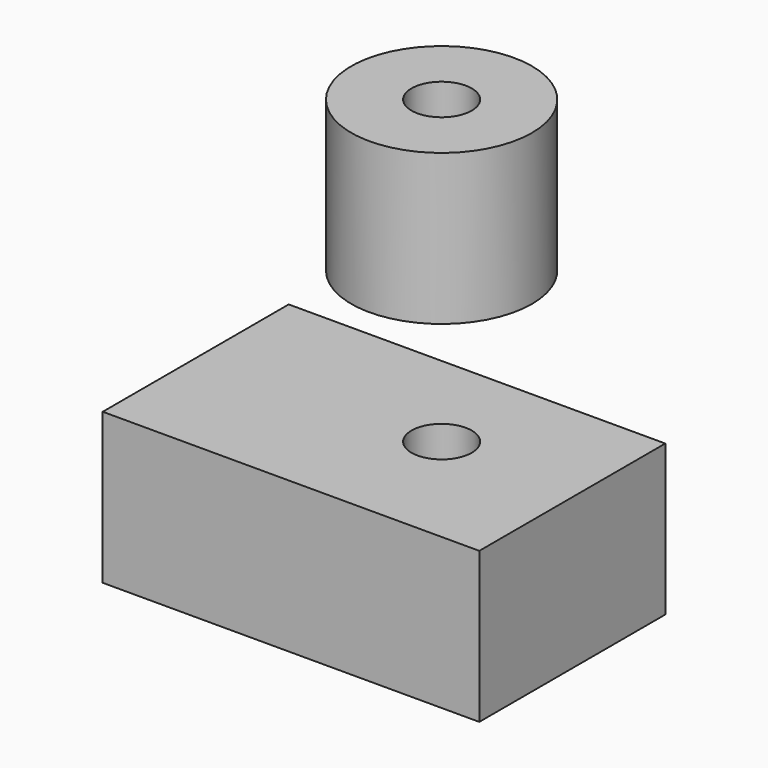
from build123d import *

# Parameters (mm, degrees)
F0_W     = 62.5082403421
F0_H     = 38.5892726481
F1_DEPTH = 25
F2_R     = 5
F3_DEPTH = 25
F5_R     = 15
F5_R_2   = 5
F6_DEPTH = 25


with BuildPart() as f1:
    # F0 (on Top) → F1 (new body)
    with BuildSketch(Plane.XY):
        with Locations((31.2541201711, 19.294636324)):
            Rectangle(F0_W, F0_H)
    extrude(amount=F1_DEPTH)

    # F2 (on face) → F3 (cut)
    with BuildSketch(Plane.XY.offset(25)):
        with Locations((39.5460315049, 20.8892356604)):
            Circle(F2_R)
    extrude(amount=-F3_DEPTH, mode=Mode.SUBTRACT)


with BuildPart() as f6:
    # F5 (on offset) → F6 (new body)
    with BuildSketch(Plane.XY.offset(50)):
        with Locations((39.5460315049, 20.8892356604)):
            Circle(F5_R)
        with Locations((39.5460315049, 20.8892356604)):
            Circle(F5_R_2, mode=Mode.SUBTRACT)
    extrude(amount=F6_DEPTH)


solid = Compound([f1.part, f6.part])
